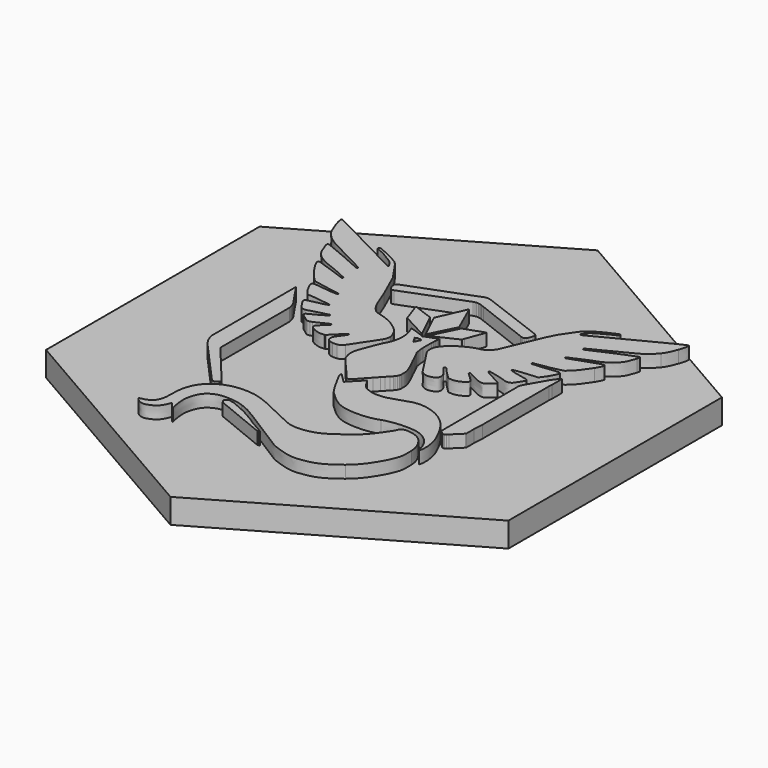
from build123d import *

# Parameters (mm, degrees)
F1_DEPTH = 6.35
F3_DEPTH = 3.175


with BuildPart() as f1:
    # F0 (on Top) → F1 (new body)
    with BuildSketch(Plane.XY):
        Polygon((-46.0831731827, 11.4267025233), (-46.0831731827, 80.1905420601), (-105.6344050833, 114.5724618285), (-165.1856369838, 80.1905420601), (-165.1856369838, 11.4267025233), (-105.6344050833, -22.955217245), align=None)
    extrude(amount=F1_DEPTH)


with BuildPart() as f3:
    # F2 (on face) → F3 (new body)
    with BuildSketch(Plane.XY.offset(6.35)):
        Polygon((-105.5882219508, 58.6855102413), (-105.949090822, 58.5159499281), (-106.2885243729, 58.6726021104), (-106.8172697261, 58.9075785213), (-107.2219778135, 59.0642269783), (-107.946539326, 59.3253102236), (-108.5144449308, 59.514595949), (-109.3173418477, 59.7560990684), (-109.7024698093, 59.8474767142), (-109.7873319223, 59.7887326115), (-109.652521117, 59.4399001532), (-109.4583589867, 58.9014094406), (-109.370434685, 58.6083520287), (-109.1715488866, 57.907233768), (-109.0408508018, 57.3670517736), (-109.0059895351, 57.214579367), (-108.9624259904, 57.0272605949), (-108.931930764, 56.7876610988), (-108.906370849, 56.5868381019), (-108.906370849, 56.3483860426), (-108.906370849, 55.8426331811), (-108.906370849, 55.3757835262), (-108.9490447476, 54.9682740205), (-109.0499554112, 54.2619291776), (-109.251784189, 53.3886950546), (-109.5396373704, 52.5992315345), (-109.8398212627, 52.0153556102), (-110.1502595092, 51.4115343432), (-110.6179748014, 50.4042420619), (-111.0483128861, 49.2993954652), (-111.4325886795, 48.3128088308), (-111.5775236053, 47.9407040482), (-112.0592076614, 46.6520775192), (-112.3524243187, 45.8676488914), (-112.5757638648, 45.0973089867), (-112.6804370716, 44.2832138472), (-112.6804370716, 43.527266764), (-112.5654522613, 42.9050352507), (-112.349810107, 42.1472627752), (-112.1034790114, 41.5176812642), (-111.6905827358, 40.9361820751), (-111.4867037787, 40.6490507657), (-111.2079043224, 40.308165186), (-110.4577128127, 39.476624512), (-109.6086520985, 38.5345991784), (-108.3280835584, 37.0385076933), (-106.7689811091, 35.2170043332), (-106.6028774042, 35.0327137456), (-106.4898688629, 34.9314760499), (-106.3221637443, 34.813917064), (-106.2201578453, 34.7689714365), (-106.1579082444, 34.7551394337), (-106.0722861722, 34.7445484334), (-106.0050372317, 34.7445484334), (-105.9361342624, 34.7550984555), (-105.8076266482, 34.7951900297), (-105.6040767863, 34.8990138703), (-105.3524855807, 35.1059351199), (-105.1926184729, 35.263764494), (-104.7417093351, 35.7916120522), (-104.5908276275, 35.9576072627), (-104.4278163746, 36.1380752259), (-104.307489498, 36.2777922385), (-104.1425336435, 36.4718426102), (-103.7371401027, 36.921354764), (-103.1929347947, 37.4796044164), (-102.4837140277, 38.2485117846), (-101.4248300627, 39.4039515489), (-100.8191053107, 40.0562051766), (-100.1223419145, 40.8120181494), (-99.6145326927, 41.3375411265), (-99.3842426971, 41.5855411523), (-99.1362426713, 41.9693503612), (-98.9406723812, 42.3947077327), (-98.8654662207, 42.8193722003), (-98.8477710918, 43.1975897484), (-98.8566186562, 43.7704537147), (-98.8654662207, 44.1513422959), (-98.915273352, 44.5386346512), (-99.0195442274, 44.9532371097), (-99.0568459818, 45.1015565615), (-99.1362426713, 45.3479763203), (-99.2777366474, 45.7303065889), (-99.4935405505, 46.3134293939), (-99.6352378562, 46.6389570468), (-99.8220502296, 47.0681295928), (-99.9513475836, 47.3651702736), (-100.2122555211, 47.8723745876), (-100.3817179673, 48.2018091174), (-100.6260937618, 48.6768749906), (-100.7929548438, 49.0012524758), (-100.9173710182, 49.2876160973), (-101.0051463082, 49.5070543223), (-101.1701617673, 49.866928541), (-101.3543425705, 50.2249755166), (-101.5055506314, 50.5189235715), (-101.7179078111, 50.9317453456), (-101.9471232131, 51.4146860772), (-102.1461803749, 51.8260773354), (-102.2656206325, 52.0693760448), (-102.4009738172, 52.3450892409), (-102.4766806796, 52.6420425706), (-102.5358010367, 53.0400823884), (-102.6302815618, 53.6761917239), (-102.7116645411, 54.6519447201), (-102.7116645411, 55.4835785263), (-102.7116645411, 56.3240561717), (-102.7116645411, 56.7487206393), (-102.7116645411, 57.5007300907), (-102.6818249658, 58.0796178513), (-102.6502643064, 58.5399184459), (-102.6242170766, 58.8359113865), (-102.5824640229, 59.2617902987), (-102.5470913912, 59.5240693622), (-102.5470913912, 59.8009383665), (-102.5836859181, 59.8178271287), (-102.6417035893, 59.8178271287), (-103.0233148768, 59.6676867538), (-103.5362948015, 59.4612423413), (-103.9491836265, 59.2985887163), (-104.4371445015, 59.1359350913), (-104.9563829139, 58.9357454412), align=None)
        Polygon((-105.9000063971, 55.5701021188), (-106.7704279259, 57.0989314549), (-106.6524271203, 57.1661138665), (-106.4425576761, 57.2538290256), (-106.1992589667, 57.3233429425), (-106.0478184655, 57.3307935231), (-105.6530792549, 57.3307935231), (-105.4395679668, 57.3009986513), (-105.2086819246, 57.2165910237), (-105.051564081, 57.0989314549), (-105.8265436724, 55.5701021188), (-105.8607418373, 55.5542025798), align=None, mode=Mode.SUBTRACT)
    extrude(amount=F3_DEPTH)


with BuildPart() as f3b:
    # F2 (on face) → F3, piece 2 (new body)
    with BuildSketch(Plane.XY.offset(6.35)):
        Polygon((-139.219367905, 59.3838866883), (-139.2465029195, 59.3598809176), (-139.2465029195, 32.341159162), (-139.038557215, 31.4363584005), (-138.596678181, 30.4263316178), (-138.0075011685, 29.4583913022), (-137.2289303973, 28.5114914262), (-127.0655338004, 17.1907831066), (-126.8050167993, 17.0668911272), (-126.515189214, 17.0668911272), (-126.3926569655, 17.0967847192), (-125.4833285049, 17.6813572728), (-125.4272405341, 17.77583436), (-125.3888551429, 17.9293572985), (-125.3888551429, 18.0828820997), (-125.4250053599, 18.2280566626), (-125.5134735539, 18.3563407593), (-128.3203903869, 21.7434082263), (-131.7835436287, 25.9223470324), (-134.2292020799, 28.8734890393), (-134.3833899137, 29.0595453518), (-134.5763351318, 29.2923696605), (-134.6040610507, 29.4008318418), (-134.6040610507, 29.5176997864), (-134.6040610507, 50.9356658988), (-134.6040610507, 51.1906582945), (-134.6040610507, 51.5194859438), (-134.6441600755, 51.800868296), (-134.7636673883, 52.3984123104), (-134.869122906, 52.7569416993), (-135.0519005492, 53.169364863), (-135.3166941836, 53.6848928862), (-135.6259975865, 54.1676122778), (-136.1469272807, 54.9058828586), (-136.5263555482, 55.4378096097), (-137.0182130769, 56.18858599), (-137.156822551, 56.3829048996), (-137.7061657361, 57.1991909859), (-137.9154702016, 57.5136825695), (-138.1624537517, 57.8847890705), (-138.3462790683, 58.1609968179), (-138.531411095, 58.4391679698), (-138.6221591666, 58.5852179759), (-138.777771993, 58.8229399257), (-138.9615331128, 59.1156248086), (-139.0627865031, 59.2774178915), (-139.13063149, 59.3818005257), (-139.158824487, 59.4037201338), (-139.1901318267, 59.4037201338), align=None)
    extrude(amount=F3_DEPTH)


with BuildPart() as f3c:
    # F2 (on face) → F3, piece 3 (new body)
    with BuildSketch(Plane.XY.offset(6.35)):
        Polygon((-108.1624388166, 79.1139783117), (-123.8998119071, 73.1366526418), (-124.1467926982, 72.9722788234), (-124.3001912072, 72.8050943547), (-124.3961099818, 72.6338651114), (-124.3961099818, 72.3359461956), (-124.3961099818, 72.0330651932), (-124.3613455728, 71.8195539051), (-124.2372189, 71.4719843202), (-123.9988897279, 70.9506299429), (-123.6417600666, 70.6229490406), (-123.4626267388, 70.5633338624), (-123.3285758927, 70.5633338624), (-122.926378651, 70.6527110272), (-107.4089277819, 76.6441922718), (-106.9709975555, 76.7576273613), (-106.6339407399, 76.820823186), (-106.1072889998, 76.820823186), (-105.5595744684, 76.7084684306), (-105.1663477257, 76.5610065394), (-104.4368278713, 76.2874331384), (-90.6491298512, 70.9600698286), (-90.0988451729, 70.7537104676), (-89.8147169784, 70.7152884536), (-89.5411689117, 70.7573693328), (-89.2886612847, 70.862586432), (-89.0929029892, 71.0759375712), (-88.9417214508, 71.2407058297), (-88.5036974913, 72.4087549674), (-88.4333793357, 72.7261107498), (-88.4649399951, 72.9891385966), (-88.5491017535, 73.1995653444), (-88.7910891607, 73.3784239822), (-89.0935752824, 73.5125642353), (-89.4241277412, 73.6480902963), (-104.692520602, 79.4103991323), (-105.2830778283, 79.6332761013), (-105.687843664, 79.7171544366), (-105.9663687184, 79.7543924385), (-106.3135657743, 79.7543924385), (-106.6201050118, 79.7137271696), (-106.9016251996, 79.6042557888), (-107.4474542786, 79.392005778), align=None)
    extrude(amount=F3_DEPTH)


with BuildPart() as f3d:
    # F2 (on face) → F3, piece 4 (new body)
    with BuildSketch(Plane.XY.offset(6.35)):
        Polygon((-119.2469168737, 10.9665149906), (-106.0796324447, 5.5887403981), (-105.9992332295, 5.5887403981), (-105.646381183, 5.7575412177), (-105.6241635516, 5.821027615), (-105.6492571071, 5.8623611078), (-108.4152180985, 7.449596011), (-108.7616282448, 7.6359085274), (-109.0603585845, 7.8067928814), (-109.5023248628, 8.0995935098), (-109.9399347141, 8.3981592291), (-110.3858072594, 8.6935477414), (-110.9264213875, 9.0168023565), (-111.2859044507, 9.231377215), (-111.8599567845, 9.5657778987), (-112.5176120833, 9.9419800647), (-113.2398788169, 10.3442620569), (-113.4211588934, 10.4624906638), (-113.5275680855, 10.5137227186), (-113.7916092113, 10.6319522568), (-114.264102681, 10.8531050467), (-117.2915939525, 12.1862188064), (-117.4185443953, 12.2364096426), (-117.8968344167, 12.3397436076), (-118.3160711363, 12.4401243486), (-118.564071162, 12.4991720625), (-118.739107652, 12.5559957781), (-118.8609544471, 12.6071775415), (-118.994528456, 12.6403549769), (-119.0741975143, 12.6403549769), (-119.1310975984, 12.6071775415), (-119.3829570249, 12.3221779325), (-119.6281854346, 12.1034586885), (-119.7785903051, 12.0239237406), (-119.7785903051, 11.7917953142), (-119.7360474899, 11.6313489237), (-119.4341052607, 11.1257655629), align=None)
    extrude(amount=F3_DEPTH)


with BuildPart() as f3e:
    # F2 (on face) → F3, piece 5 (new body)
    with BuildSketch(Plane.XY.offset(6.35)):
        with BuildLine():
            Line((-77.2357154921, 53.6069039338), (-77.2357154921, 29.0841132485))
            Line((-77.2357154921, 29.0841132485), (-77.2357154921, 28.8961444133))
            add(Edge.make_bspline(
                [(-77.2357154921, 28.8961444133), (-77.2313485084, 28.8775128445), (-77.2232351376, 28.8428974581), (-77.2083421022, 28.8188213946), (-77.2014651731, 28.8077041589)],
                knots=[0, 0, 0, 0, 0.5382452924, 1, 1, 1, 1], degree=3))
            Line((-77.2014651731, 28.8077041589), (-76.6697097853, 28.2196503215))
            Line((-76.6697097853, 28.2196503215), (-76.350661023, 27.944390484))
            Line((-76.350661023, 27.944390484), (-76.1317033604, 27.8630655342))
            Line((-76.1317033604, 27.8630655342), (-75.8752171233, 27.8630655342))
            Line((-75.8752171233, 27.8630655342), (-75.6875369981, 27.913111084))
            Line((-75.6875369981, 27.913111084), (-75.3747467235, 28.1821142965))
            Line((-75.3747467235, 28.1821142965), (-75.0468764737, 28.5319283687))
            Line((-75.0468764737, 28.5319283687), (-72.651991649, 30.8698218399))
            Line((-72.651991649, 30.8698218399), (-72.5857187346, 31.0432713562))
            Line((-72.5857187346, 31.0432713562), (-72.5857187346, 33.4961291485))
            Line((-72.5857187346, 33.4961291485), (-72.4465195373, 35.9757717782))
            Line((-72.4465195373, 35.9757717782), (-72.4465195373, 37.7434182995))
            Line((-72.4465195373, 37.7434182995), (-72.4465195373, 39.8232292467))
            Line((-72.4465195373, 39.8232292467), (-72.4465195373, 57.5040940278))
            Line((-72.4465195373, 57.5040940278), (-72.3864529565, 58.3736922675))
            Line((-72.3864529565, 58.3736922675), (-72.3864529565, 61.4554163151))
            Line((-72.3864529565, 61.4554163151), (-72.3982919291, 61.5303803318))
            Line((-72.3982919291, 61.5303803318), (-72.4180210665, 61.5619447165))
            Line((-72.4180210665, 61.5619447165), (-72.4561605886, 61.5619447165))
            Line((-72.4561605886, 61.5619447165), (-72.5048203304, 61.5316953593))
            Line((-72.5048203304, 61.5316953593), (-72.7919135526, 61.24585756))
            Line((-72.7919135526, 61.24585756), (-73.1092337802, 60.8909566038))
            Line((-73.1092337802, 60.8909566038), (-73.4369922712, 60.4776021176))
            Line((-73.4369922712, 60.4776021176), (-73.6619252995, 60.1708207362))
            Line((-73.6619252995, 60.1708207362), (-73.9041883781, 59.8056752317))
            Line((-73.9041883781, 59.8056752317), (-74.4028100229, 58.9837110454))
            Line((-74.4028100229, 58.9837110454), (-75.1036963212, 57.758461354))
            Line((-75.1036963212, 57.758461354), (-76.9026474741, 54.6136369365))
            Line((-76.9026474741, 54.6136369365), (-77.153394027, 54.0441934102))
            Line((-77.153394027, 54.0441934102), (-77.2357154921, 53.6069039338))
        make_face()
    extrude(amount=F3_DEPTH)


with BuildPart() as f3f:
    # F2 (on face) → F3, piece 6 (new body)
    with BuildSketch(Plane.XY.offset(6.35)):
        with BuildLine():
            ThreePointArc((-111.3543380335, 52.5180760854), (-110.9773490651, 53.4386375018), (-110.8638737634, 54.4269073837))
            ThreePointArc((-110.8638737634, 54.4269073837), (-111.5585624131, 56.3262970392), (-112.8920037582, 57.8468915158))
            add(Edge.make_bspline(
                [(-112.8920037582, 57.8468915158), (-113.5664254445, 58.4081980504), (-115.0176592331, 59.6160284409), (-118.8003659942, 60.8509837712), (-119.694201058, 60.9066074996), (-121.036630943, 62.2150367907), (-121.6678682873, 63.4201535201), (-122.0030132964, 64.0599902802)],
                knots=[0, 0, 0, 0, 0.2303712919, 0.4957174562, 0.6234496072, 0.8000768079, 1, 1, 1, 1], degree=3))
            add(Edge.make_bspline(
                [(-122.0030132964, 64.0599902802), (-122.1972089326, 64.6179724503), (-122.632302382, 65.8681261189), (-123.3399141899, 67.5537215487), (-123.7316970065, 68.4869837099)],
                knots=[0, 0, 0, 0, 0.4463308664, 1, 1, 1, 1], degree=3))
            add(Edge.make_bspline(
                [(-123.7316970065, 68.4869837099), (-124.1691092181, 69.4903817622), (-125.0448996976, 71.4993939436), (-126.424531615, 74.7636648799), (-127.4668544676, 76.116493063), (-129.1664163477, 78.8382934077), (-130.1399773341, 79.8384548278), (-130.3191012838, 80.2054093268), (-131.6512640278, 81.0690910535), (-132.9180320587, 81.7125152913), (-133.6265448764, 82.0723872715)],
                knots=[0, 0, 0, 0, 0.1627058535, 0.3257710546, 0.4449786024, 0.6035568899, 0.7049007661, 0.7578323853, 0.864553845, 1, 1, 1, 1], degree=3))
            add(Edge.make_bspline(
                [(-133.6265448764, 82.0723872715), (-134.0408514105, 82.2607603321), (-134.8964501224, 82.6497760363), (-135.8543695477, 83.0368530574), (-136.3484356835, 83.2364957862)],
                knots=[0, 0, 0, 0, 0.4842299647, 1, 1, 1, 1], degree=3))
            add(Edge.make_bspline(
                [(-136.3484356835, 83.2364957862), (-136.5470515289, 83.2739708911), (-136.9213752386, 83.3445987921), (-136.901931712, 83.0158975581), (-136.8928049043, 82.8616049223)],
                knots=[0, 0, 0, 0, 0.5305991586, 1, 1, 1, 1], degree=3))
            add(Edge.make_bspline(
                [(-136.8928049043, 82.8616049223), (-136.8784664019, 82.789789315), (-136.851333015, 82.6538894417), (-136.6429118812, 82.7369841252), (-135.8058239383, 82.2821256258), (-134.4373948755, 81.7771056822), (-133.7518855613, 81.2125768594), (-132.5506909818, 80.6171570045), (-131.6384244246, 79.9197067679), (-131.4323178329, 79.8080960659), (-131.0587104678, 79.292388014), (-130.6781845231, 78.8547898385), (-130.473570106, 78.4445448749), (-130.3532799341, 78.300474421), (-130.353381709, 78.2631005788), (-130.3534154132, 78.250723713)],
                knots=[0, 0, 0, 0, 0.0445199755, 0.0842471332, 0.1848896528, 0.314235586, 0.4138396844, 0.5380135256, 0.6486102581, 0.6991686589, 0.7807573727, 0.8643290183, 0.9354775555, 0.9786324982, 1, 1, 1, 1], degree=3))
            add(Edge.make_bspline(
                [(-130.3534154132, 78.250723713), (-130.3615980963, 78.2347598178), (-130.3904201028, 78.1785299132), (-130.604413966, 78.2004014746), (-130.7576541141, 78.216063612)],
                knots=[0, 0, 0, 0, 0.2839040066, 1, 1, 1, 1], degree=3))
            add(Edge.make_bspline(
                [(-130.7576541141, 78.216063612), (-131.057222659, 78.3860291731), (-131.7359156328, 78.7710977459), (-133.3112477095, 79.4394707427), (-138.9966287066, 82.480528956), (-143.2336123907, 84.684212054), (-147.0428104426, 86.664231693), (-148.9721548838, 87.4931470062), (-150.1154145613, 88.1720314707), (-150.3941896527, 88.1598341528), (-150.4894290402, 88.1556671195)],
                knots=[0, 0, 0, 0, 0.0829652248, 0.1879633763, 0.3928599815, 0.5789913775, 0.7447099872, 0.8640882368, 0.9535677559, 1, 1, 1, 1], degree=3))
            add(Edge.make_bspline(
                [(-150.4894290402, 88.1556671195), (-150.4934833635, 88.0739628297), (-150.5057995207, 87.8257628697), (-150.3107867156, 86.5856031301), (-149.525199736, 84.4279378469), (-148.8304404081, 82.7820671038), (-148.0560862409, 81.7415642274), (-147.0521501526, 80.6456173616), (-146.2501721641, 80.0793928431), (-145.3027489251, 79.3950334458), (-143.6756984477, 78.524477225), (-141.7331169308, 77.5417486244), (-140.6004224256, 76.968732112)],
                knots=[0, 0, 0, 0, 0.0441880421, 0.1342337143, 0.2619686028, 0.3723481345, 0.4661703039, 0.5656420714, 0.6472258079, 0.7338360973, 0.8448032232, 1, 1, 1, 1], degree=3))
            add(Edge.make_bspline(
                [(-140.6004224256, 76.968732112), (-139.171188284, 76.258107292), (-136.7405350623, 75.0495701756), (-135.3497487993, 74.269803186), (-134.7767506078, 73.9485424095)],
                knots=[0, 0, 0, 0, 0.5880041336, 1, 1, 1, 1], degree=3))
            add(Edge.make_bspline(
                [(-134.7767506078, 73.9485424095), (-134.7296003265, 73.915652823), (-134.6137354179, 73.8348314827), (-134.8920459139, 73.5831387773), (-134.8933670953, 73.5731374555)],
                knots=[0, 0, 0, 0, 0.3723375419, 0.9149649603, 0.9149649603, 0.9149649603, 0.9149649603], degree=3))
            add(Edge.make_bspline(
                [(-134.8933670953, 73.5731374555), (-134.969955417, 73.5869020852), (-135.206756091, 73.6294604481), (-136.4019380487, 74.1853296309), (-137.9530119933, 74.8973156529), (-140.6611084752, 76.0581558908), (-144.2322376831, 77.5339055577), (-145.5918398947, 78.0989145386), (-145.8572597201, 78.0399165992), (-145.9416244462, 78.0211638742)],
                knots=[0, 0, 0, 0, 0.0632662378, 0.1956106024, 0.3526399043, 0.5598292912, 0.7984131305, 0.9359248278, 1, 1, 1, 1], degree=3))
            add(Edge.make_bspline(
                [(-145.9416244462, 78.0211638742), (-145.9600093872, 77.8672026361), (-146.0063615584, 77.4790350766), (-145.4972013437, 76.3896044346), (-145.1146684013, 75.0451587524), (-144.3541623614, 73.9074354355), (-143.6082916731, 73.079067048), (-142.5140308653, 72.298864293), (-141.0654993941, 71.4912579704), (-139.5496491695, 70.9314123496), (-138.3368617508, 70.4823588814), (-136.9832967768, 69.8901044547), (-135.3334355172, 69.1144576656), (-135.0658098748, 68.989744126), (-134.9840555623, 68.9516466194)],
                knots=[0, 0, 0, 0, 0.053655259, 0.1352758083, 0.2263923687, 0.3140375671, 0.393294352, 0.4802549318, 0.5783915203, 0.6745266647, 0.7594378741, 0.854350622, 0.955507011, 1, 1, 1, 1], degree=3))
            add(Edge.make_bspline(
                [(-134.9840555623, 68.9516466194), (-134.7055402232, 68.8521008409), (-134.3314655171, 68.7184006363), (-134.3013770722, 68.6182180521), (-134.3482607259, 68.3785961105), (-134.4459434004, 68.350301402), (-134.4889197782, 68.3378528886)],
                knots=[0, 0, 0, 0, 0.4265331764, 0.5728778642, 0.8120837463, 1, 1, 1, 1], degree=3))
            add(Edge.make_bspline(
                [(-134.4889197782, 68.3378528886), (-134.5247675183, 68.3321032721), (-134.6476278992, 68.3123977042), (-135.4434406165, 68.6353711332), (-136.2959000348, 68.9558698907), (-138.099027467, 69.5765633999), (-141.1622674042, 70.5926647977), (-141.9204774787, 70.8600867633), (-142.1945337489, 70.9567468696)],
                knots=[0, 0, 0, 0, 0.0569735033, 0.1952643675, 0.3447991769, 0.5613444529, 0.8414472359, 1, 1, 1, 1], degree=3))
            add(Edge.make_bspline(
                [(-142.1945337489, 70.9567468696), (-142.3274568509, 70.9757165425), (-142.5640812091, 71.0094855911), (-142.6523855364, 70.862911735), (-142.6910851434, 70.7986753517)],
                knots=[0, 0, 0, 0, 0.5617473326, 1, 1, 1, 1], degree=3))
            add(Edge.make_bspline(
                [(-142.6910851434, 70.7986753517), (-142.7029409917, 70.6646263481), (-142.72631527, 70.4003433847), (-142.5266279208, 70.0818104694), (-142.2119296444, 69.3186956911), (-141.6980288786, 68.6171705034), (-141.1936611744, 67.7736454578), (-140.4916561183, 66.8293823866), (-140.0769648628, 66.3526345445), (-139.3989363128, 65.3794726617), (-139.0157569166, 65.0111370641), (-138.8428453639, 64.8449238472)],
                knots=[0, 0, 0, 0, 0.078137211, 0.1540506316, 0.2677847852, 0.3866994551, 0.5139796755, 0.6491964618, 0.7524789522, 0.8883049321, 1, 1, 1, 1], degree=3))
            add(Edge.make_bspline(
                [(-138.8428453639, 64.8449238472), (-138.6449285271, 64.6465484074), (-138.2772070382, 64.2779748528), (-137.8417392834, 63.8247537952), (-137.0358654393, 63.662146024), (-135.8764167072, 63.4998214637), (-134.9061647812, 63.2566672751), (-133.8218732474, 63.0883433085), (-132.6087779878, 62.817308862), (-131.6530700451, 62.7150302688), (-131.0555583557, 62.5944795572), (-130.8639583585, 62.5819214703), (-130.7881418899, 62.5769522124)],
                knots=[0, 0, 0, 0, 0.0990546084, 0.1840394614, 0.2820073426, 0.4017916223, 0.5123897685, 0.6276011347, 0.751263276, 0.8605319318, 0.9448122309, 1, 1, 1, 1], degree=3))
            add(Edge.make_bspline(
                [(-130.7363454536, 62.2047808104), (-130.697642843, 62.2291664962), (-130.6122247432, 62.282986611), (-130.685850262, 62.4858461537), (-130.7556475918, 62.5480111594), (-130.7881418899, 62.5769522124)],
                knots=[0, 0, 0, 0, 0.3068920115, 0.6773220753, 1, 1, 1, 1], degree=3))
            add(Edge.make_bspline(
                [(-135.3792641595, 62.6056108706), (-134.7184787316, 62.5178663198), (-133.3984879832, 62.3425870379), (-131.4557748184, 62.1855004287), (-130.7549286388, 62.2050832191), (-130.7381694271, 62.2048104924), (-130.7363454536, 62.2047808104)],
                knots=[0, 0, 0, 0, 0.3870839313, 0.7732422456, 0.9753210258, 1, 1, 1, 1], degree=3))
            add(Edge.make_bspline(
                [(-135.3110703016, 58.3135291839), (-135.6694694141, 58.686009629), (-136.4174145268, 59.4648065881), (-137.2299844603, 61.1121692259), (-137.7556305327, 62.0799173685), (-137.7076347947, 62.5188353776), (-137.5962423793, 62.6712230089), (-137.3450583381, 62.7953962391), (-136.3409272789, 62.7290466309), (-135.7019453456, 62.6470291145), (-135.3792641595, 62.6056108706)],
                knots=[0.0009395188, 0.0009395188, 0.0009395188, 0.0009395188, 0.1762978525, 0.3671022628, 0.511626864, 0.5970453725, 0.6531275879, 0.7218463817, 0.8595344644, 1, 1, 1, 1], degree=3))
            add(Edge.make_bspline(
                [(-134.3267653421, 55.4510455661), (-134.3645707177, 55.5314291828), (-134.4433039125, 55.6988355062), (-134.3375626527, 56.0183989466), (-134.1551511332, 56.2484326876), (-133.401616678, 56.4292412099), (-132.1937407857, 56.6253833144), (-130.706597423, 56.9509767045), (-129.4885444909, 57.3296611159), (-129.1644724651, 57.4868695307), (-129.1197919745, 57.6667288099), (-130.1026494249, 57.8547409898), (-132.0753522399, 58.0692487687), (-134.4286966079, 58.3960973514), (-135.2928377154, 58.3281005378), (-135.3110703016, 58.3135291839)],
                knots=[0, 0, 0, 0, 0.0440496248, 0.0917374215, 0.1360778943, 0.2085703071, 0.3046960472, 0.413360313, 0.5099817449, 0.5574595921, 0.5827432332, 0.6589802822, 0.7854184617, 0.9233364308, 0.9901793883, 0.9901793883, 0.9901793883, 0.9901793883], degree=3))
            add(Edge.make_bspline(
                [(-128.8703326419, 52.3844983511), (-128.2875722932, 52.6916541896), (-127.2630557953, 53.2316467005), (-126.2768639554, 53.9121106945), (-126.1372593647, 54.0589141988), (-126.3395809177, 54.3673497172), (-126.5906109595, 54.1793449578), (-127.423880285, 54.0628474145), (-129.2438416604, 53.5653618517), (-129.8486837233, 53.4115193752), (-131.0444769874, 53.0034640915), (-131.4354801679, 52.8750533875), (-132.2817424169, 52.8715898902), (-132.8048953419, 53.1582355285), (-133.1121060378, 53.5102019939), (-134.2857703229, 55.441709778), (-134.3267653421, 55.4510455661)],
                knots=[0, 0, 0, 0, 0.1091186166, 0.1918349853, 0.2220888567, 0.262777176, 0.2999296402, 0.3726187046, 0.4799362698, 0.5469111509, 0.6318864022, 0.684993565, 0.7552258028, 0.8122952816, 0.8749596663, 0.9901503293, 0.9901503293, 0.9901503293, 0.9901503293], degree=3))
            add(Edge.make_bspline(
                [(-127.6036147311, 49.4638782077), (-127.9250587456, 49.4106975021), (-128.6054037397, 49.2981390932), (-129.3609609751, 50.2324315485), (-130.4930552551, 50.7923306552), (-130.6837364786, 51.2652108683), (-130.4567063363, 51.6477468501), (-129.5215521284, 52.082055783), (-128.8703326419, 52.3844983511)],
                knots=[0, 0, 0, 0, 0.1680657641, 0.3557157581, 0.5519353226, 0.6635663844, 0.7657155103, 1, 1, 1, 1], degree=3))
            Line((-127.6036147311, 49.4638782077), (-127.1074358657, 49.6337067419))
            Line((-127.1074358657, 49.6337067419), (-123.7682495549, 51.2570243412))
            add(Edge.make_bspline(
                [(-123.4774086907, 50.9630430572), (-123.4431129169, 51.0079703411), (-123.3766928004, 51.0949803454), (-123.4566870986, 51.2158699521), (-123.5523611315, 51.3971918131), (-123.7876017262, 51.2486013587), (-123.7704520714, 51.2560657016), (-123.7682495549, 51.2570243412)],
                knots=[0, 0, 0, 0, 0.2305633541, 0.4465286284, 0.6929779246, 0.9605694003, 1, 1, 1, 1], degree=3))
            Line((-123.4774086907, 50.9630430572), (-125.399777694, 49.1038698786))
            add(Edge.make_bspline(
                [(-121.9490114883, 46.7645887368), (-122.2986903781, 46.7435329569), (-123.0538970596, 46.6980584769), (-124.4300426156, 47.0738118801), (-125.5338794239, 47.7913809801), (-125.8279766359, 48.1514909477), (-125.8201004867, 48.4612469369), (-125.7804290457, 48.7289322477), (-125.4231525178, 49.0807237185), (-125.3987322136, 49.1047103432), (-125.399777694, 49.1038698786)],
                knots=[0, 0, 0, 0, 0.168807987, 0.3645771117, 0.5498089809, 0.6548437395, 0.7390865102, 0.8273516638, 0.9397747174, 0.9595677125, 0.9595677125, 0.9595677125, 0.9595677125], degree=3))
            Line((-121.9490114883, 46.7645887368), (-121.6649357513, 46.8066733413))
            Line((-121.6649357513, 46.8066733413), (-121.3909928039, 47.0126371913))
            Line((-121.3909928039, 47.0126371913), (-118.3660570815, 50.0212598675))
            Line((-118.3660570815, 50.0212598675), (-118.298435612, 50.083710634))
            Line((-118.298435612, 50.083710634), (-118.2484571174, 50.1179013484))
            Line((-118.2484571174, 50.1179013484), (-118.1379873589, 50.1415755682))
            Line((-118.1379873589, 50.1415755682), (-118.0722285345, 50.1100111835))
            Line((-118.0722285345, 50.1100111835), (-117.9801691607, 49.9258924358))
            Line((-117.9801691607, 49.9258924358), (-117.9801691607, 49.8575072818))
            Line((-117.9801691607, 49.8575072818), (-118.1649957135, 49.5101537638))
            Line((-118.1649957135, 49.5101537638), (-119.5112783745, 47.6435002022))
            ThreePointArc((-119.5112783745, 47.6435002022), (-119.6973087298, 47.2755011616), (-119.8636312321, 46.8981850975))
            ThreePointArc((-119.8636312321, 46.8981850975), (-119.9321471687, 46.2605414257), (-119.6775455311, 45.67193129))
            ThreePointArc((-119.6775455311, 45.67193129), (-119.0280079616, 45.2201453202), (-118.2604078487, 45.0283128851))
            Line((-118.2604078487, 45.0283128851), (-117.1184573606, 45.0913634234))
            ThreePointArc((-117.1184573606, 45.0913634234), (-116.3224684947, 45.3796040437), (-115.7154832318, 45.9697309964))
            Line((-115.7154832318, 45.9697309964), (-111.3543380335, 52.5180760854))
        make_face()
    extrude(amount=F3_DEPTH)


with BuildPart() as f3g:
    # F2 (on face) → F3, piece 7 (new body)
    with BuildSketch(Plane.XY.offset(6.35)):
        with BuildLine():
            add(Edge.make_bspline(
                [(-135.3053096965, 58.3075422876), (-135.3072299001, 58.309537915), (-135.3091501038, 58.3115335424), (-135.3110703016, 58.3135291839)],
                knots=[0, 0, 0, 0, 0.0009395188, 0.0009395188, 0.0009395188, 0.0009395188], degree=3))
            add(Edge.make_bspline(
                [(-135.3110703016, 58.3135291839), (-135.3116395715, 58.3130742274), (-135.3131079175, 58.3109683759), (-135.3087452428, 58.3090516684), (-135.3053096965, 58.3075422876)],
                knots=[0.9901793883, 0.9901793883, 0.9901793883, 0.9901793883, 0.9922664036, 1, 1, 1, 1], degree=3))
        make_face()
    extrude(amount=F3_DEPTH)


with BuildPart() as f3h:
    # F2 (on face) → F3, piece 8 (new body)
    with BuildSketch(Plane.XY.offset(6.35)):
        with BuildLine():
            add(Edge.make_bspline(
                [(-105.2408162787, 33.9246194892), (-104.9482782395, 34.1945054238), (-104.4526617888, 34.6856907151), (-104.0005596258, 35.1570955206), (-103.3325602264, 35.8185022584), (-102.9674338553, 36.2328383609), (-102.8351504639, 36.4605326288)],
                knots=[0, 0, 0, 0, 0.2814422288, 0.4994016507, 0.7570792132, 1, 1, 1, 1], degree=3))
            add(Edge.make_bspline(
                [(-105.2408162787, 33.9246194892), (-105.3418342759, 33.828221678), (-105.5373339024, 33.6416634743), (-105.7475695737, 33.3678480521), (-105.8662460175, 33.183392915), (-105.8967762849, 33.1637026748), (-105.930603536, 33.1224469761), (-106.0214404222, 33.245380957), (-106.0136106421, 33.2446101645), (-106.0127634838, 33.2445267671)],
                knots=[0, 0, 0, 0, 0.2614872733, 0.5060550171, 0.6879885511, 0.7626014149, 0.8373129339, 0.9823977564, 1, 1, 1, 1], degree=3))
            add(Edge.make_bspline(
                [(-106.0127634838, 33.2445267671), (-106.1463024271, 33.3767439992), (-106.417146372, 33.6449072469), (-106.8702328469, 34.0583588753), (-107.3457891313, 34.5587855291), (-107.9866259671, 35.2159944829), (-108.2535555323, 35.5181982889), (-108.3194504809, 35.5356239873), (-108.3395425513, 35.5409372681)],
                knots=[0, 0, 0, 0, 0.1782425339, 0.3615118543, 0.5617213085, 0.7924783519, 0.9367244431, 1, 1, 1, 1], degree=3))
            add(Edge.make_bspline(
                [(-108.3395425513, 35.5409372681), (-108.3618034688, 35.5256523709), (-108.4409710142, 35.4713215101), (-108.3729879453, 34.799240792), (-107.8898045677, 33.8936103025), (-107.4775393091, 33.1168132312), (-107.2607750966, 32.7080134418)],
                knots=[0, 0, 0, 0, 0.0916604401, 0.3255227644, 0.6429576045, 1, 1, 1, 1], degree=3))
            add(Edge.make_bspline(
                [(-107.2607750966, 32.7080134418), (-106.9736228715, 32.1709091792), (-106.4247495567, 31.1442683552), (-105.6954847416, 29.9177144296), (-104.8962160495, 28.6151675425), (-104.4851891502, 28.2107301972), (-104.3120122456, 28.0403296524)],
                knots=[0, 0, 0, 0, 0.2856193667, 0.5459433528, 0.8086934825, 1, 1, 1, 1], degree=3))
            add(Edge.make_bspline(
                [(-104.3120122456, 28.0403296524), (-104.1043133639, 27.8443059023), (-101.3611509749, 25.1446695831), (-98.0989872322, 24.1380038802), (-94.6256129326, 23.9489367548), (-91.9379355233, 24.2294810348), (-90.5914873692, 24.6226744626), (-89.9709057589, 24.8055651537), (-89.7226799563, 24.8784542166)],
                knots=[0, 0, 0, 0, 0.2024359047, 0.408973688, 0.6048415487, 0.7782719567, 0.9020755099, 1, 1, 1, 1], degree=3))
            add(Edge.make_bspline(
                [(-75.3879417017, 19.2877229386), (-75.4412263099, 19.3221283012), (-75.5590383134, 19.3981977843), (-75.5707615366, 19.6863370193), (-75.7920484629, 20.4430704439), (-76.0527582798, 21.2046269262), (-76.3766830224, 22.0272326229), (-77.3062070418, 23.5022342603), (-79.417241851, 25.1335106471), (-81.8619859442, 25.7418230382), (-85.5426397677, 25.8259233606), (-88.8961539308, 25.2284560741), (-89.5523435653, 24.9655731974), (-89.7226799563, 24.8784542166)],
                knots=[0, 0, 0, 0, 0.0332373265, 0.072931367, 0.1419955505, 0.2126470727, 0.2845473395, 0.3863803095, 0.5122921976, 0.6352109167, 0.7877907904, 0.9311326997, 1, 1, 1, 1], degree=3))
            add(Edge.make_bspline(
                [(-76.9916270211, 27.4575229817), (-76.7710791844, 27.0357755813), (-76.3688474195, 26.2665991353), (-76.009012802, 25.4404477548), (-75.6071568092, 24.313654434), (-75.3776317883, 23.3948678614), (-75.2881040118, 22.4946510361), (-75.135629666, 21.9044651645), (-75.1792263476, 20.9407673668), (-75.1554781239, 20.1401881326), (-75.3136653682, 19.676484462), (-75.3990871867, 19.3125058226), (-75.3897054509, 19.291644777), (-75.3879417017, 19.2877229386)],
                knots=[0, 0, 0, 0, 0.125941417, 0.2296900263, 0.3471710445, 0.4547266828, 0.5559797873, 0.6409777106, 0.7472852475, 0.8446830024, 0.9230822614, 0.9855396058, 1, 1, 1, 1], degree=3))
            add(Edge.make_bspline(
                [(-80.0438095167, 31.8567480975), (-79.7118687563, 31.5319953826), (-79.0287736195, 30.8633516698), (-78.1582417298, 29.4940662339), (-77.5648952608, 28.6155258556), (-77.1835961227, 27.8540212837), (-76.9916270211, 27.4575229817)],
                knots=[0, 0, 0, 0, 0.2586544229, 0.5317814119, 0.755653914, 1, 1, 1, 1], degree=3))
            add(Edge.make_bspline(
                [(-82.1660552457, 33.4752898746), (-81.8241870631, 33.2667783362), (-81.1495707712, 32.8553177558), (-80.0382371218, 31.8872024539), (-80.0438095167, 31.8567480975)],
                knots=[0, 0, 0, 0, 0.4853539009, 0.9577599364, 0.9577599364, 0.9577599364, 0.9577599364], degree=3))
            add(Edge.make_bspline(
                [(-85.7703108624, 34.8562363618), (-85.2612545864, 34.7411509183), (-84.2726368661, 34.5176481069), (-83.002374029, 33.9439531345), (-82.4264074859, 33.6211882235), (-82.1660552457, 33.4752898746)],
                knots=[0, 0, 0, 0, 0.3677591617, 0.7142102773, 1, 1, 1, 1], degree=3))
            add(Edge.make_bspline(
                [(-97.9380402997, 33.014154815), (-97.7092825541, 32.9826421427), (-97.1984141785, 32.9122671366), (-96.01107394, 33.0291683226), (-95.416454063, 33.0274735533), (-94.06616416, 33.4007068895), (-93.2452919968, 33.7492838476), (-91.549801905, 34.2334478108), (-90.2056101731, 34.6101929502), (-89.240545726, 35.0395479225), (-87.012673905, 35.1262293785), (-86.1465467462, 34.9380007558), (-85.7703108624, 34.8562363618)],
                knots=[0, 0, 0, 0, 0.0789355706, 0.1762811862, 0.2492790765, 0.353343439, 0.4425143552, 0.5622935926, 0.6694527576, 0.7632109105, 0.8971414861, 1, 1, 1, 1], degree=3))
            add(Edge.make_bspline(
                [(-102.5496218637, 36.518628531), (-102.5083973821, 36.4824257426), (-102.3795524508, 36.3692758467), (-101.9507510252, 35.5195784658), (-101.6321703617, 35.0106809027), (-101.3024800667, 34.4698380358), (-100.7494694461, 33.9359851328), (-100.0155682006, 33.6268725568), (-99.2648917969, 33.257545852), (-98.4155043046, 33.1017384365), (-97.9380402997, 33.014154815)],
                knots=[0, 0, 0, 0, 0.0664194769, 0.2075905536, 0.3253561828, 0.4395780838, 0.5668731659, 0.6961018178, 0.829170497, 1, 1, 1, 1], degree=3))
            add(Edge.make_bspline(
                [(-102.8351504639, 36.4605326288), (-102.784648151, 36.5044815154), (-102.6896536575, 36.5871490606), (-102.5942879216, 36.5404845814), (-102.5496218637, 36.518628531)],
                knots=[0, 0, 0, 0, 0.5316341081, 1, 1, 1, 1], degree=3))
        make_face()
    extrude(amount=F3_DEPTH)


with BuildPart() as f3i:
    # F2 (on face) → F3, piece 9 (new body)
    with BuildSketch(Plane.XY.offset(6.35)):
        Polygon((-115.0190104082, 67.7500169807), (-113.3267302349, 62.8979008728), (-106.8945769504, 59.4571221703), (-106.8339917889, 59.4301978981), (-106.7979354694, 59.4301978981), (-106.7831535175, 59.4635445707), (-106.8087686136, 59.540389859), (-106.855073972, 59.6536945634), (-109.8026801184, 65.8293541604), (-109.852889581, 65.9487124615), (-109.9190209344, 65.9962322646), (-114.9584073856, 67.8206484848), (-115.0190104082, 67.8206484848), align=None)
    extrude(amount=F3_DEPTH)


with BuildPart() as f3j:
    # F2 (on face) → F3, piece 10 (new body)
    with BuildSketch(Plane.XY.offset(6.35)):
        Polygon((-105.9009600714, 59.7587738269), (-102.7368624046, 66.1583568984), (-102.6892084911, 66.2589546376), (-102.6921663716, 66.3050737315), (-102.7368624046, 66.4028402501), (-105.9051920012, 73.5765870743), (-105.954492493, 73.63928371), (-105.9908662274, 73.5765870743), (-109.1523247995, 66.3850780659), (-109.1523247995, 66.2957496544), (-109.0966705516, 66.1781977945), (-106.0612631091, 59.766867056), (-105.9624124601, 59.717993074), align=None)
    extrude(amount=F3_DEPTH)


with BuildPart() as f3k:
    # F2 (on face) → F3, piece 11 (new body)
    with BuildSketch(Plane.XY.offset(6.35)):
        Polygon((-105.2276585534, 59.3844715589), (-105.156714125, 59.3799155288), (-99.0408230856, 62.3214867049), (-98.8421310022, 62.4833431178), (-98.6509416535, 63.0139511161), (-96.8841556743, 67.714358502), (-96.8841556743, 67.8206037813), (-96.9896260932, 67.8394164973), (-101.8421072796, 66.1583568984), (-101.9238521191, 66.1261542964), (-101.9860077932, 66.0306017929), (-105.1896009877, 59.5414441162), (-105.2293249864, 59.4357612668), align=None)
    extrude(amount=F3_DEPTH)


with BuildPart() as f3l:
    # F2 (on face) → F3, piece 12 (new body)
    with BuildSketch(Plane.XY.offset(6.35)):
        with BuildLine():
            add(Edge.make_bspline(
                [(-133.8425968125, 1.9409129712), (-133.3059700041, 2.0287553104), (-132.1851653407, 2.2122237878), (-130.351784092, 3.2384749301), (-129.6768007176, 5.3119955317), (-129.6797722216, 6.5332796596), (-129.6812091306, 7.123847314)],
                knots=[0, 0, 0, 0, 0.2357243891, 0.4923365558, 0.7545128094, 1, 1, 1, 1], degree=3))
            add(Edge.make_bspline(
                [(-133.8425968125, 1.9409129712), (-133.6849878562, 1.7489155103), (-133.3012263147, 1.2814215096), (-131.7360728348, 0.26346891), (-129.8842654545, 1.0208571022), (-128.6787610638, 1.5938748504), (-127.6506400827, 3.13393202), (-127.3116575021, 4.0490688535), (-127.1504257157, 4.4843394392)],
                knots=[0, 0, 0, 0, 0.1251353116, 0.3046915684, 0.4926554486, 0.6521406667, 0.8345461245, 1, 1, 1, 1], degree=3))
            add(Edge.make_bspline(
                [(-127.1504257157, 4.4843394392), (-127.0451860923, 4.3629324086), (-126.7802003316, 4.0572382858), (-126.0744754946, 3.0011030316), (-125.7011285035, 2.7578826453), (-125.6559585036, 2.7465909741), (-125.644842191, 2.7438120999)],
                knots=[0, 0, 0, 0, 0.275495299, 0.6936772387, 0.9246141339, 1, 1, 1, 1], degree=3))
            add(Edge.make_bspline(
                [(-125.644842191, 2.7438120999), (-125.6258084411, 2.7438120999), (-125.6067746912, 2.7438120999), (-125.5877409413, 2.7438120999)],
                knots=[0, 0, 0, 0, 0.0571012497, 0.0571012497, 0.0571012497, 0.0571012497], degree=3))
            add(Edge.make_bspline(
                [(-125.5877409413, 2.7438120999), (-125.622225489, 2.8684033887), (-125.7104413995, 3.1871239379), (-126.023492652, 4.1996752036), (-126.3849874873, 6.9098112457), (-126.0084230032, 9.382408857), (-124.8020095609, 11.6917542911), (-122.9630867963, 12.7910368065), (-121.3940598931, 13.2170272046), (-118.1815577437, 13.2193325334), (-116.545417404, 12.7718358708), (-115.7706547812, 12.5599324786)],
                knots=[0, 0, 0, 0, 0.0515276255, 0.1318142966, 0.2631648992, 0.3912330681, 0.5175291365, 0.6304113821, 0.7320587283, 0.8731215915, 1, 1, 1, 1], degree=3))
            add(Edge.make_bspline(
                [(-115.7706547812, 12.5599324786), (-114.8620549839, 12.2029043246), (-112.9442109496, 11.4493004635), (-109.8343756518, 9.3406654406), (-107.4055754005, 7.8739495822), (-105.0329053033, 6.2840802954), (-101.6452734903, 4.3565372987), (-99.8072771991, 2.9160592763), (-96.7691669028, 1.810226953), (-93.4476761486, 0.9395197906), (-90.2828574828, 1.5136078692), (-88.8785972291, 1.7319992471), (-86.1089427767, 2.883788809), (-84.1384406614, 4.373237896), (-83.0725673869, 5.1789025859)],
                knots=[0, 0, 0, 0, 0.0836877825, 0.1766455538, 0.2573232377, 0.339135006, 0.4332970494, 0.5071574945, 0.5920414155, 0.6826850081, 0.7666653941, 0.8238962763, 0.9047429327, 1, 1, 1, 1], degree=3))
            add(Edge.make_bspline(
                [(-83.0725673869, 5.1789025859), (-82.6849614943, 5.5216262615), (-81.8350234539, 6.2731470583), (-80.2431692592, 7.9839206122), (-78.8669821102, 10.1145236792), (-77.5762183787, 12.3698736008), (-76.9918775474, 13.9737532558), (-76.5686207058, 15.0043694473), (-76.4840349051, 16.7722248213), (-76.4883164921, 17.7552450219), (-76.4903743103, 18.2277046227)],
                knots=[0, 0, 0, 0, 0.116958542, 0.2564654355, 0.404725292, 0.5534698727, 0.6715407924, 0.7676854095, 0.8883448594, 1, 1, 1, 1], degree=3))
            add(Edge.make_bspline(
                [(-76.4903743103, 18.2277046227), (-76.5594240313, 18.8659584036), (-76.7020732964, 20.1845217735), (-77.7995376102, 22.1833628015), (-78.8844332827, 23.4131804778), (-80.4415940021, 24.2269567329), (-81.9297387362, 24.5210557434), (-83.324347357, 24.631861345), (-83.87242728, 24.2518663166), (-84.1209907368, 24.0795321845)],
                knots=[0, 0, 0, 0, 0.1585589368, 0.3275656365, 0.472533026, 0.6198169492, 0.7609404735, 0.8915824868, 1, 1, 1, 1], degree=3))
            add(Edge.make_bspline(
                [(-84.1209907368, 24.0795321845), (-84.2053112324, 23.9694709182), (-84.3914665342, 23.726487429), (-84.5681921959, 23.1011350617), (-85.2996376013, 21.9890233978), (-85.9914684967, 21.0172952224), (-86.3697994783, 20.4859010958)],
                knots=[0, 0, 0, 0, 0.1642874112, 0.3626991561, 0.6514890338, 1, 1, 1, 1], degree=3))
            add(Edge.make_bspline(
                [(-97.6683963373, 12.0817374521), (-97.2575533632, 12.1546511972), (-95.9310790233, 12.5165808786), (-93.5382958115, 13.8654645034), (-90.7906363442, 15.9221810597), (-88.2644673697, 17.9214346455), (-86.9805245518, 19.6583381715), (-86.3697994783, 20.4859010958)],
                knots=[0, 0, 0, 0, 0.1535039436, 0.3527215843, 0.5745135448, 0.7887598839, 1, 1, 1, 1], degree=3))
            add(Edge.make_bspline(
                [(-97.6683963373, 12.0817374521), (-98.326320601, 11.9243296036), (-99.7679846109, 11.579412654), (-102.878068656, 11.7762204287), (-104.2802306022, 12.4934808497), (-104.9311179951, 12.8264350899)],
                knots=[0, 0, 0, 0, 0.3102423392, 0.6798126159, 1, 1, 1, 1], degree=3))
            add(Edge.make_bspline(
                [(-112.7081308797, 16.484820106), (-112.2162685872, 16.2522732741), (-111.0476783682, 15.699777266), (-107.9919966491, 14.2179297299), (-105.9544945214, 13.2916684794), (-104.9311179951, 12.8264350899)],
                knots=[0, 0, 0, 0, 0.2656573602, 0.6311616024, 1, 1, 1, 1], degree=3))
            add(Edge.make_bspline(
                [(-129.6812091306, 7.123847314), (-129.6673561121, 8.042275291), (-129.6388428546, 9.9326483831), (-128.8103117872, 12.9490961815), (-127.0333930213, 15.3075817166), (-125.4844454306, 16.4078723759), (-123.4379270084, 17.3880679179), (-121.3075059455, 17.872427449), (-118.4380551054, 18.0378416505), (-115.6220243493, 17.6141790957), (-113.6937784064, 16.866834722), (-112.7081308797, 16.484820106)],
                knots=[0, 0, 0, 0, 0.1143566375, 0.2353768787, 0.3512986698, 0.4453892832, 0.5466561024, 0.6482302311, 0.7634221463, 0.8790702103, 1, 1, 1, 1], degree=3))
        make_face()
    extrude(amount=F3_DEPTH)


with BuildPart() as f3m:
    # F2 (on face) → F3, piece 13 (new body)
    with BuildSketch(Plane.XY.offset(6.35)):
        with BuildLine():
            add(Edge.make_bspline(
                [(-81.7089621261, 78.9647426539), (-81.5991491573, 78.9475636209), (-81.2774159618, 78.8972319957), (-79.9144583737, 79.6173800991), (-77.9716630351, 80.597148642), (-74.3369036174, 82.443089605), (-70.8633275459, 84.3156017476), (-66.499281978, 86.5955016012), (-64.6240565461, 87.5444834688), (-62.255490491, 88.7236172597), (-61.766230289, 88.8506423222), (-61.6030860975, 88.8929989272)],
                knots=[0, 0, 0, 0, 0.045777666, 0.1341207232, 0.2463587178, 0.394914744, 0.5480125903, 0.7103471342, 0.8234182024, 0.9411186635, 1, 1, 1, 1], degree=3))
            add(Edge.make_bspline(
                [(-81.7089621261, 78.9647426539), (-81.6692907791, 79.0792097796), (-81.5661749906, 79.3767385716), (-80.883757996, 80.2870708443), (-80.2748899734, 80.8866833317), (-78.393335517, 81.97858984), (-77.5754146524, 82.3941902758), (-75.8774807215, 83.245706607), (-75.5918120817, 83.3257410837), (-75.0156178347, 83.4699994809), (-75.1208980078, 83.9219263175), (-75.3028874258, 84.0765231003), (-75.8546654699, 83.9838546504), (-78.2579090141, 82.8772836124), (-80.1318714731, 81.8745243498), (-81.358951176, 81.0921128377), (-82.4579267323, 80.0338162279), (-83.1791193888, 78.9192723566), (-83.5697669819, 78.3155586653)],
                knots=[0, 0, 0, 0, 0.0393726279, 0.1023393429, 0.1616519845, 0.2485698007, 0.3130917168, 0.3937684864, 0.4298530952, 0.471660561, 0.5081054296, 0.5351733306, 0.5764286597, 0.6752755953, 0.7668603937, 0.8385277389, 0.9125355068, 1, 1, 1, 1], degree=3))
            add(Edge.make_bspline(
                [(-83.5697669819, 78.3155586653), (-84.0362177858, 77.6900939212), (-84.9568412284, 76.4556282473), (-85.9816330402, 74.4146938125), (-86.5541589622, 73.0978292658), (-87.0390959881, 71.9665852683), (-87.297478719, 71.3638391428)],
                knots=[0, 0, 0, 0, 0.2742103538, 0.5412027974, 0.7555450134, 1, 1, 1, 1], degree=3))
            add(Edge.make_bspline(
                [(-87.297478719, 71.3638391428), (-87.4840378416, 70.9651153469), (-87.9399587561, 69.9906976115), (-89.0660737485, 67.1861741716), (-90.0497872028, 64.5363080393), (-90.9438192825, 62.8953016756), (-91.8805128433, 62.0687147793), (-92.8255090987, 61.5530442268), (-93.6508638146, 61.379849359), (-94.0846372679, 61.2888250583)],
                knots=[0, 0, 0, 0, 0.1304358756, 0.318764598, 0.5038039146, 0.649220104, 0.7669961837, 0.8775425062, 1, 1, 1, 1], degree=3))
            add(Edge.make_bspline(
                [(-93.6229024365, 49.975274884), (-93.4928093397, 49.8174787386), (-93.1665998091, 49.4218035816), (-92.1482128586, 48.0801662372), (-92.1296086335, 47.5320741757), (-92.0530096112, 47.1892915158), (-92.283610366, 46.2525854945), (-93.4119314842, 45.8246330271), (-94.5137478033, 45.6845270461), (-95.3332045523, 45.8773430798), (-96.2740538721, 46.4395279669), (-96.8481868058, 47.4713114892), (-98.1699887701, 49.5330081292), (-99.7182774711, 51.8561060465), (-100.8352024714, 53.4998614658), (-101.0324898836, 53.8477549008), (-101.142716934, 54.1156904381), (-101.3147156748, 55.7491634629), (-100.5844997399, 57.1950161995), (-99.144437623, 58.6365863852), (-97.9438876937, 59.5675115379), (-95.9280930427, 60.6294084934), (-94.9524584154, 60.9954476375), (-94.3646977763, 61.1941472207), (-94.0846372679, 61.2888250583)],
                knots=[0, 0, 0, 0, 0.035829549, 0.0898428945, 0.1197918609, 0.1437850554, 0.182280958, 0.2273125286, 0.2713761543, 0.3094249957, 0.3516310317, 0.3964669334, 0.4617066966, 0.5345138074, 0.5920954327, 0.6162703606, 0.637536586, 0.6891220317, 0.7434130198, 0.8019870477, 0.85507296, 0.9175710948, 0.9607236695, 1, 1, 1, 1], degree=3))
            add(Edge.make_bspline(
                [(-88.1645102337, 51.9573342138), (-88.2238223507, 51.9968454756), (-88.3355976701, 52.0713054688), (-88.5048899573, 52.0473373092), (-88.732710236, 51.8278383771), (-87.9649358881, 51.1484031821), (-86.8971577818, 50.2266981618), (-86.1676307962, 49.3440335786), (-86.2483827793, 48.8220105663), (-86.9506210422, 48.2793977935), (-88.437741072, 47.4488322318), (-90.1128621772, 47.5409503698), (-90.4809866918, 47.5724582637), (-90.8042633817, 47.9011141025), (-91.2598906518, 48.3088491655), (-92.6632607244, 49.656369346), (-93.6476428318, 51.09767034), (-94.251666501, 50.706804345), (-93.862894839, 50.2547270593), (-93.6229024365, 49.975274884)],
                knots=[0, 0, 0, 0, 0.0301414413, 0.0569273704, 0.0865967294, 0.1488992337, 0.2336233121, 0.3032524505, 0.3465609913, 0.4073156419, 0.4971007842, 0.5826052008, 0.6218113894, 0.6641628788, 0.716378398, 0.8130330997, 0.8981661818, 0.9372298942, 1, 1, 1, 1], degree=3))
            add(Edge.make_bspline(
                [(-85.6163222626, 55.0455253654), (-85.6733843413, 55.0611215004), (-85.8046968927, 55.0970116806), (-86.0041152387, 54.7184479252), (-85.3807471408, 54.3888032308), (-84.4693560379, 53.8032640339), (-82.114369325, 52.5844087723), (-81.5348418904, 52.2913464043), (-81.3090676805, 51.8611946233), (-82.2370275748, 51.2560860346), (-83.2120992616, 50.5011915066), (-83.5991733463, 50.1378395647), (-84.5273224546, 50.1492804399), (-86.7696991048, 51.166832687), (-87.7322341132, 51.7123441028), (-88.1645102337, 51.9573342138)],
                knots=[0, 0, 0, 0, 0.0331019997, 0.0761750735, 0.1360988132, 0.2252530329, 0.3571811619, 0.4220321715, 0.4668915008, 0.5479455072, 0.6402786588, 0.6959107726, 0.7691021233, 0.8963033682, 1, 1, 1, 1], degree=3))
            add(Edge.make_bspline(
                [(-79.5307103828, 57.3343996041), (-78.8275685379, 57.2163894773), (-77.7548363849, 57.0363500465), (-77.4700211725, 56.37988402), (-78.7547842844, 54.6697964924), (-79.0261237085, 54.0934954319), (-79.7059872135, 53.6783845247), (-80.6453629839, 53.6151981749), (-81.6422679079, 54.1010379634), (-83.6925460213, 54.5977619115), (-85.4310518396, 55.0075940643), (-85.5823242423, 55.0385647879), (-85.6163222626, 55.0455253654)],
                knots=[0, 0, 0, 0, 0.1292315345, 0.1971591127, 0.335628955, 0.4166971534, 0.4983558379, 0.5895394905, 0.6900489345, 0.8363188649, 0.9632131542, 1, 1, 1, 1], degree=3))
            add(Edge.make_bspline(
                [(-75.3763411477, 60.7529085212), (-75.8740305674, 60.0276499727), (-76.537000952, 59.0615355247), (-76.8136121505, 59.1138491813), (-78.9871708043, 58.9251171845), (-80.6701854567, 58.7868650116), (-82.4525912174, 58.5748435253), (-83.0679861239, 58.2573095462), (-81.8437687547, 57.8395656657), (-80.4254403685, 57.5298063559), (-79.5307103828, 57.3343996041)],
                knots=[0, 0, 0, 0, 0.1542750254, 0.2055092371, 0.359738232, 0.5130389319, 0.6578120648, 0.7231796718, 0.8253722828, 1, 1, 1, 1], degree=3))
            add(Edge.make_bspline(
                [(-79.2356077865, 63.030759626), (-78.3375422216, 63.1196889805), (-76.6889305371, 63.2829398373), (-74.7297212913, 63.6093255089), (-74.2138587673, 63.3030533522), (-74.4114264535, 62.4112809942), (-75.0066021148, 61.3883688764), (-75.3763411477, 60.7529085212)],
                knots=[0, 0, 0, 0, 0.2764834749, 0.5075507904, 0.6157960475, 0.761322233, 1, 1, 1, 1], degree=3))
            add(Edge.make_bspline(
                [(-80.5584434703, 63.4171169334), (-80.8149034023, 63.4017449892), (-81.1967545475, 63.3788572247), (-81.3119833883, 63.2667800244), (-81.5058782908, 63.1508270606), (-81.2390810156, 62.8362151793), (-80.8390669173, 62.9594598505), (-79.8842204821, 63.0019182675), (-79.2356077865, 63.030759626)],
                knots=[0, 0, 0, 0, 0.1988598651, 0.2960886195, 0.395870634, 0.5296572472, 0.6805033045, 1, 1, 1, 1], degree=3))
            add(Edge.make_bspline(
                [(-70.2939275935, 69.3910297089), (-70.9335745767, 68.4020314713), (-72.1130045011, 66.5784410418), (-74.2167982712, 64.6445672296), (-74.5721293126, 64.5775927974), (-77.563007226, 63.8655378495), (-79.5363674541, 63.5701231155), (-80.5584434703, 63.4171169334)],
                knots=[0, 0, 0, 0, 0.2499811833, 0.4609343841, 0.539816591, 0.7616540464, 1, 1, 1, 1], degree=3))
            add(Edge.make_bspline(
                [(-69.7145108417, 71.7485275202), (-69.6586604098, 71.7411701307), (-69.5364803928, 71.7258524244), (-69.2760632608, 71.5277994041), (-69.412229457, 70.9277610931), (-69.7969231425, 70.2492780241), (-70.1159959032, 69.6902886913), (-70.2939275935, 69.3910297089)],
                knots=[0, 0, 0, 0, 0.1170172745, 0.2612736436, 0.468230973, 0.7193111362, 1, 1, 1, 1], degree=3))
            add(Edge.make_bspline(
                [(-70.4080704883, 71.5203534894), (-70.1768839394, 71.5964114997), (-69.9456973905, 71.67246951), (-69.7145108417, 71.7485275202)],
                knots=[0, 0, 0, 0, 0.7301290103, 0.7301290103, 0.7301290103, 0.7301290103], degree=3))
            add(Edge.make_bspline(
                [(-77.3582104877, 69.1358920269), (-76.9674121647, 69.2566037882), (-76.0625167552, 69.536112456), (-73.938927299, 70.3188371899), (-71.8680799204, 70.9853768321), (-70.8631443952, 71.3536053081), (-70.4080704883, 71.5203534894)],
                knots=[0, 0, 0, 0, 0.2134237011, 0.4941836135, 0.7709466593, 1, 1, 1, 1], degree=3))
            add(Edge.make_bspline(
                [(-70.2022332981, 72.650748127), (-70.363542171, 72.5556301895), (-70.7392333349, 72.3340988626), (-71.7965112394, 71.9117055054), (-72.2630918942, 71.7515589234), (-73.0570104968, 71.5003401598), (-73.9315884655, 71.0881755713), (-75.198143765, 70.5447382239), (-76.085921236, 70.1255251706), (-77.0688050163, 69.6788552459), (-77.6670622301, 69.5113750744), (-77.6942712317, 69.3269091354), (-77.6906998016, 69.1872908404), (-77.548918079, 69.0184515947), (-77.4231803706, 69.0958826541), (-77.3582104877, 69.1358920269)],
                knots=[0, 0, 0, 0, 0.0790647613, 0.1841432009, 0.2558961941, 0.3436945797, 0.4436208988, 0.5597974794, 0.660411369, 0.7651460976, 0.8394472884, 0.8768664905, 0.9139289998, 0.9555262867, 1, 1, 1, 1], degree=3))
            add(Edge.make_bspline(
                [(-66.1236737207, 77.9703136616), (-66.2658590402, 77.6398156286), (-66.5571763115, 76.9258267336), (-66.9866026775, 75.5193219756), (-67.7878783086, 74.5785743101), (-68.1338467798, 74.1432027585), (-69.0111394387, 73.3215995179), (-69.7915008086, 72.8820883521), (-70.2022332981, 72.650748127)],
                knots=[0, 0, 0, 0, 0.1662260985, 0.3583096467, 0.528938222, 0.6458922005, 0.813730876, 1, 1, 1, 1], degree=3))
            add(Edge.make_bspline(
                [(-66.1236737207, 77.9703136616), (-66.1063932345, 78.0373949774), (-66.0638815883, 78.2024214206), (-65.957143151, 78.9053309353), (-66.5580519807, 78.7530828657), (-67.2724339987, 78.4468358199), (-68.8245010209, 77.8235379072), (-69.6421737272, 77.5029310149), (-70.7037555221, 77.0222604813), (-71.3396959664, 76.7598510805), (-71.6511924103, 76.6313176685)],
                knots=[0, 0, 0, 0, 0.0711165864, 0.1749535943, 0.2638278206, 0.3932364094, 0.5733458767, 0.7085437738, 0.8572388675, 1, 1, 1, 1], degree=3))
            add(Edge.make_bspline(
                [(-71.6511924103, 76.6313176685), (-71.8536373557, 76.5479101254), (-72.32663253, 76.3529800532), (-73.5199732116, 75.7916303704), (-74.6569085773, 75.3416936351), (-76.013696207, 74.7025441806), (-76.2540046409, 74.6165540152), (-76.381960912, 74.5510485106)],
                knots=[0, 0, 0, 0, 0.1702518787, 0.398509405, 0.632469818, 0.8727213767, 1, 1, 1, 1], degree=3))
            add(Edge.make_bspline(
                [(-74.259059532, 76.2302231126), (-74.7976620735, 75.9492242836), (-76.0379496525, 75.2540818346), (-77.0186333935, 74.8505392633), (-77.2070749376, 74.7518888885), (-77.3082899077, 74.5085850003), (-77.1873880071, 74.3236863882), (-76.9839188295, 74.2695552217), (-76.6273102434, 74.424112509), (-76.381960912, 74.5510485106)],
                knots=[0, 0, 0, 0, 0.2877219781, 0.4875907539, 0.5731072681, 0.66784759, 0.754333275, 0.83706574, 1, 1, 1, 1], degree=3))
            add(Edge.make_bspline(
                [(-70.7039702967, 78.0617695384), (-71.1014862515, 77.8634327494), (-71.9047910893, 77.4626314728), (-73.1441681916, 76.807268084), (-73.8944833319, 76.4189203025), (-74.259059532, 76.2302231126)],
                knots=[0, 0, 0, 0, 0.3349389764, 0.6768485563, 1, 1, 1, 1], degree=3))
            add(Edge.make_bspline(
                [(-63.7805629805, 82.772183054), (-64.0840350756, 82.4309597695), (-64.6311999539, 81.8157289134), (-65.1967748901, 81.2315632305), (-66.1632316804, 80.4575729627), (-67.0854851343, 79.9320311108), (-68.2974609965, 79.300333172), (-69.6734645433, 78.5762072716), (-70.3792161127, 78.2238897456), (-70.7039702967, 78.0617695384)],
                knots=[0, 0, 0, 0, 0.1476104881, 0.2661439917, 0.4088954205, 0.5444027589, 0.6970888321, 0.8606143104, 1, 1, 1, 1], degree=3))
            add(Edge.make_bspline(
                [(-62.0992873147, 86.1792590552), (-62.2560113185, 85.7335090319), (-62.5723930504, 84.8336649684), (-63.2537305234, 83.4761262343), (-63.6221445446, 82.9838586562), (-63.7805629805, 82.772183054)],
                knots=[0, 0, 0, 0, 0.3587791637, 0.7242743323, 1, 1, 1, 1], degree=3))
            add(Edge.make_bspline(
                [(-61.5290943816, 88.9167290264), (-61.5160141814, 88.9049909893), (-61.4672664863, 88.8612453091), (-61.4952458162, 88.341324168), (-61.5507608828, 88.0222711834), (-61.7072123639, 87.2781500483), (-61.9576567428, 86.5762151971), (-62.0992873147, 86.1792590552)],
                knots=[0, 0, 0, 0, 0.0729093638, 0.271720875, 0.4433313695, 0.6851943859, 1, 1, 1, 1], degree=3))
            add(Edge.make_bspline(
                [(-61.6030860975, 88.8929989272), (-61.5792541737, 88.9008319709), (-61.5529263054, 88.9088959826), (-61.5290943816, 88.9167290264)],
                knots=[0, 0, 0, 0, 0.0777038714, 0.0777038714, 0.0777038714, 0.0777038714], degree=3))
        make_face()
    extrude(amount=F3_DEPTH)


solid = Compound([f1.part, f3.part, f3b.part, f3c.part, f3d.part, f3e.part, f3f.part, f3g.part, f3h.part, f3i.part, f3j.part, f3k.part, f3l.part, f3m.part])
